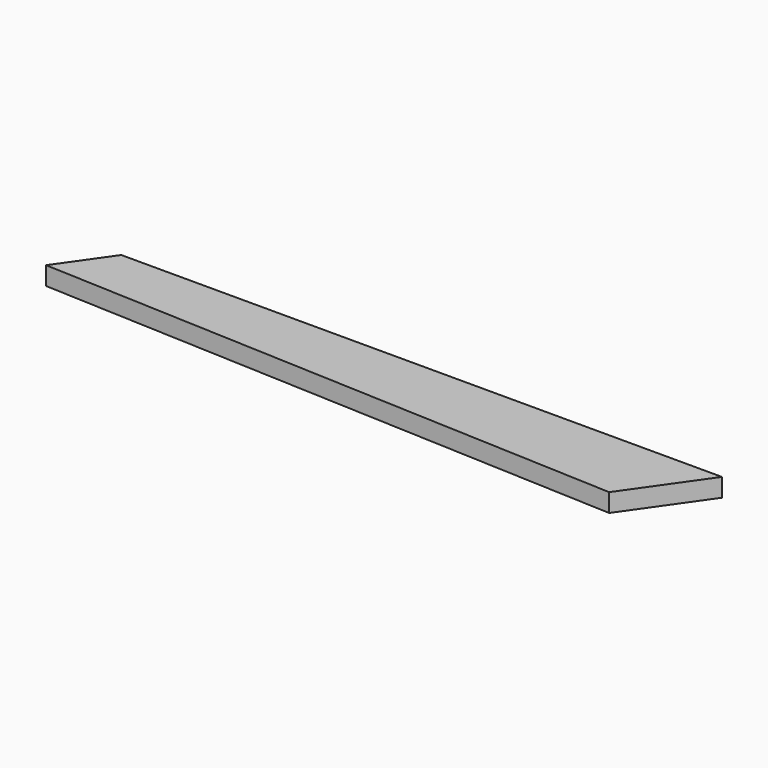
from build123d import *

# Parameters (mm, degrees)
F0_W     = 685.8
F0_H     = 19.05
F1_DEPTH = 88.9
F3_DEPTH = 127
F5_DEPTH = 127
F7_DEPTH = 25.4


with BuildPart() as f1:
    # F0 (on Front) → F1 (new body)
    with BuildSketch(Plane.XZ):
        with Locations((-342.9, 9.525)):
            Rectangle(F0_W, F0_H)
    extrude(amount=F1_DEPTH)

    # F2 (on face) → F3 (cut)
    with BuildSketch(Plane.XY.offset(19.05)):
        Polygon((0, -88.9), (0, 0), (-62.2484501468, -88.9), align=None)
    extrude(amount=-F3_DEPTH, mode=Mode.SUBTRACT)

    # F4 (on face) → F5 (cut)
    with BuildSketch(Plane.XY.offset(19.05)):
        Polygon((-685.8, 0), (-685.8, -88.9), (-623.5515498532, 0), align=None)
    extrude(amount=-F5_DEPTH, mode=Mode.SUBTRACT)

    # F6 (on face) → F7 (cut)
    with BuildSketch(Plane.XY.offset(19.05)):
        Polygon((-685.8, -88.9), (-62.2484501468, -88.9), (-54.6331555624, -78.0242322185), (-659.9736535614, -52.0161548124), align=None)
    extrude(amount=-F7_DEPTH, mode=Mode.SUBTRACT)


solid = f1.part
